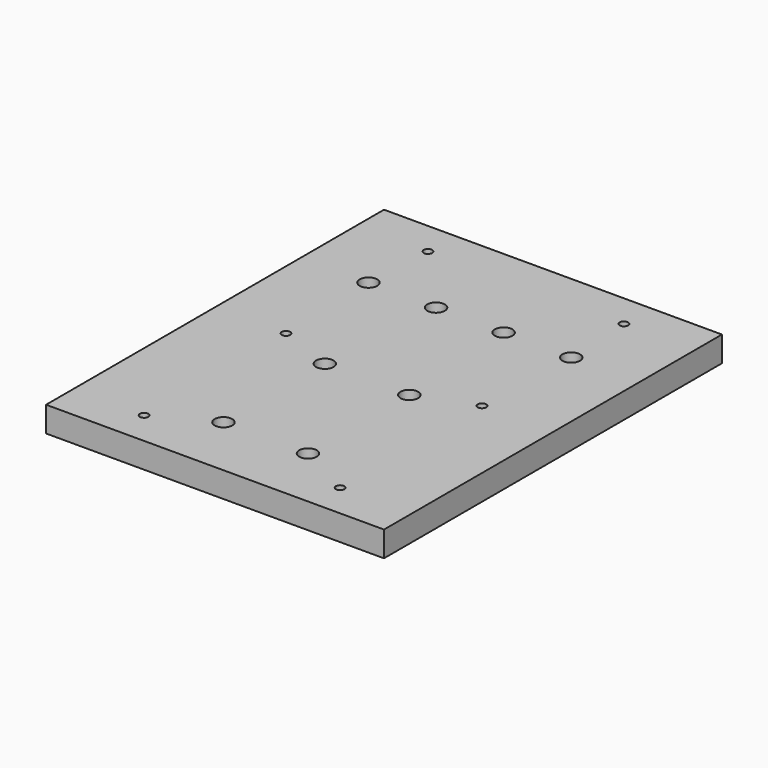
from build123d import *

# Parameters (mm, degrees)
SKETCH_W        = 200
SKETCH_H        = 250
PAD_DEPTH       = 15
SKETCH001_R     = 3.25
POCKET_DEPTH    = 15
SKETCH002_R     = 5.2
POCKET001_DEPTH = 6.2
SKETCH003_R     = 2.5
POCKET002_DEPTH = 15
SKETCH004_R     = 3.25
POCKET003_DEPTH = 15
SKETCH005_R     = 5.2
POCKET004_DEPTH = 7


with BuildPart() as part:
    # Sketch → Pad (new body)
    with BuildSketch(Plane.XY):
        with Locations((100, 125)):
            Rectangle(SKETCH_W, SKETCH_H)
    extrude(amount=PAD_DEPTH)

    # Sketch001 (on Face6 of Pad) → Pocket (cut)
    with BuildSketch(Plane.XY.offset(15)):
        with Locations((125, 37.5)):
            Circle(SKETCH001_R)
        with Locations((75, 37.5)):
            Circle(SKETCH001_R)
        with Locations((125, 112.5)):
            Circle(SKETCH001_R)
        with Locations((75, 112.5)):
            Circle(SKETCH001_R)
    extrude(amount=-POCKET_DEPTH, mode=Mode.SUBTRACT)

    # Sketch002 (on Face5 of Pocket) → Pocket001 (cut)
    with BuildSketch(Plane.XY.offset(15)):
        with Locations((75, 112.5)):
            Circle(SKETCH002_R)
        with Locations((125, 112.5)):
            Circle(SKETCH002_R)
        with Locations((75, 37.5)):
            Circle(SKETCH002_R)
        with Locations((125, 37.5)):
            Circle(SKETCH002_R)
    extrude(amount=-POCKET001_DEPTH, mode=Mode.SUBTRACT)

    # Sketch003 (on Face5 of Pocket001) → Pocket002 (cut)
    with BuildSketch(Plane.XY.offset(15)):
        with Locations((42, 230)):
            Circle(SKETCH003_R)
        with Locations((42, 125)):
            Circle(SKETCH003_R)
        with Locations((42, 20)):
            Circle(SKETCH003_R)
        with Locations((158, 230)):
            Circle(SKETCH003_R)
        with Locations((158, 125)):
            Circle(SKETCH003_R)
        with Locations((158, 20)):
            Circle(SKETCH003_R)
    extrude(amount=-POCKET002_DEPTH, mode=Mode.SUBTRACT)

    # Sketch004 (on Face5 of Pocket002) → Pocket003 (cut)
    with BuildSketch(Plane.XY.offset(15)):
        with Locations((40, 188.5)):
            Circle(SKETCH004_R)
        with Locations((80, 188.5)):
            Circle(SKETCH004_R)
        with Locations((120, 188.5)):
            Circle(SKETCH004_R)
        with Locations((160, 188.5)):
            Circle(SKETCH004_R)
    extrude(amount=-POCKET003_DEPTH, mode=Mode.SUBTRACT)

    # Sketch005 (on Face5 of Pocket003) → Pocket004 (cut)
    with BuildSketch(Plane.XY.offset(15)):
        with Locations((40, 188.5)):
            Circle(SKETCH005_R)
        with Locations((80, 188.5)):
            Circle(SKETCH005_R)
        with Locations((120, 188.5)):
            Circle(SKETCH005_R)
        with Locations((160, 188.5)):
            Circle(SKETCH005_R)
    extrude(amount=-POCKET004_DEPTH, mode=Mode.SUBTRACT)


solid = part.part
